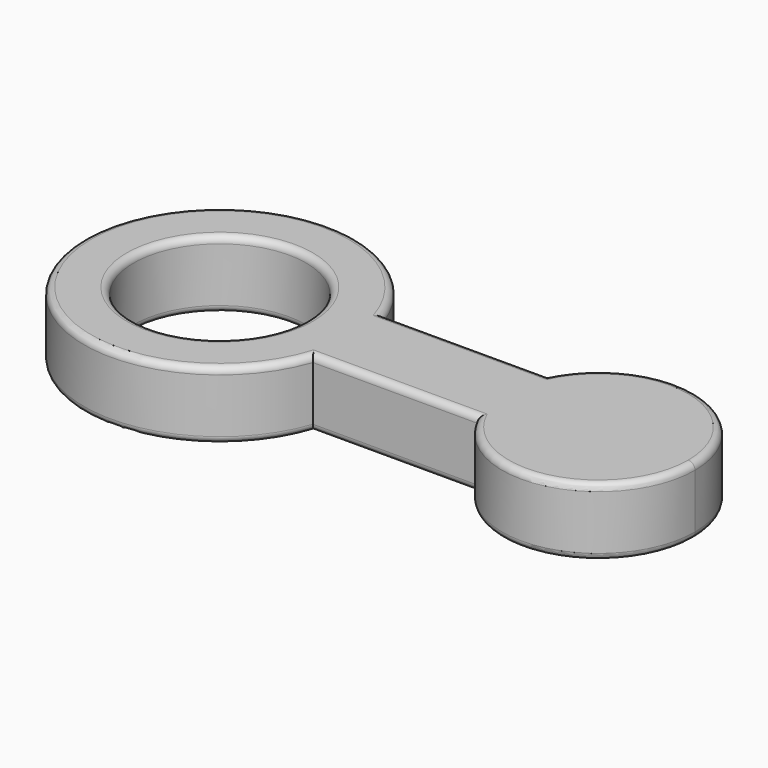
from build123d import *

# Parameters (mm, degrees)
F0_R     = 6.35
F1_DEPTH = 2.5
F2_R     = 0.5


with BuildPart() as f1:
    # F0 (on Top) → F1 (new body, symmetric)
    with BuildSketch(Plane.XY):
        with BuildLine():
            ThreePointArc((9.458626, -3.245673), (9.863728, -1.645257), (10, 0))
            ThreePointArc((10, 0), (9.863728, 1.645257), (9.458626, 3.245673))
            ThreePointArc((9.458626, 3.245673), (-10, 0), (9.458626, -3.245673))
        make_face()
        Circle(F0_R, mode=Mode.SUBTRACT)
        with BuildLine():
            ThreePointArc((9.458626, 3.245673), (9.863728, 1.645257), (10, 0))
            ThreePointArc((10, 0), (9.863728, -1.645257), (9.458626, -3.245673))
            Line((9.458626, -3.245673), (21.566868, -3.245673))
            ThreePointArc((21.566868, -3.245673), (20.782659, 0), (21.566868, 3.245673))
            Line((21.566868, 3.245673), (9.458626, 3.245673))
        make_face()
        with BuildLine():
            ThreePointArc((35, 0), (29.560863, 6.909838), (21.566868, 3.245673))
            ThreePointArc((21.566868, 3.245673), (20.782659, 0), (21.566868, -3.245673))
            ThreePointArc((21.566868, -3.245673), (29.560863, -6.909838), (35, 0))
        make_face()
    extrude(amount=F1_DEPTH, both=True)

    # F2
    f2_edges = [f1.edges().sort_by_distance(p)[0] for p in [
        (-10, 0, -2.5),
        (15.512747, -3.245673, -2.5),
        (29.560863, -6.909838, -2.5),
        (29.560863, 6.909838, -2.5),
        (15.512747, 3.245673, -2.5),
        (-6.35, 0, -2.5),
        (15.512747, 3.245673, 2.5),
        (-10, 0, 2.5),
        (15.512747, -3.245673, 2.5),
        (29.560863, -6.909838, 2.5),
        (29.560863, 6.909838, 2.5),
        (-6.35, 0, 2.5),
    ]]
    fillet(f2_edges, radius=F2_R)


solid = f1.part
